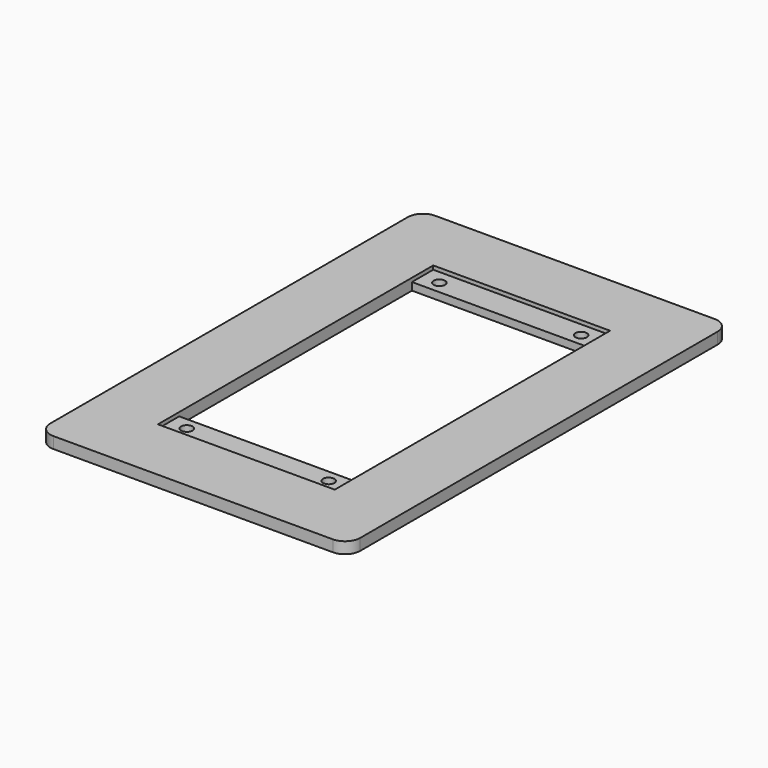
from build123d import *

# Parameters (mm, degrees)
F0_W     = 93
F0_H     = 153
F2_DEPTH = 6
F1_W     = 93
F1_H     = 14
F3_DEPTH = 2
F5_D     = 6


with BuildPart() as f2:
    # F0 (on Top) → F2 (new body)
    with BuildSketch(Plane.XY):
        with BuildLine():
            Line((-73.5, -125.5), (73.5, -125.5))
            ThreePointArc((73.5, -125.5), (79.1568542495, -123.1568542495), (81.5, -117.5))
            Line((81.5, -117.5), (81.5, 117.5))
            ThreePointArc((81.5, 117.5), (79.1568542495, 123.1568542495), (73.5, 125.5))
            Line((73.5, 125.5), (-73.5, 125.5))
            ThreePointArc((-73.5, 125.5), (-79.1568542495, 123.1568542495), (-81.5, 117.5))
            Line((-81.5, 117.5), (-81.5, -117.5))
            ThreePointArc((-81.5, -117.5), (-79.1568542495, -123.1568542495), (-73.5, -125.5))
        make_face()
        Rectangle(F0_W, F0_H, mode=Mode.SUBTRACT)
    extrude(amount=-F2_DEPTH)

    # F1 (on face) → F3 (cut)
    with BuildSketch(Plane.XY):
        with Locations((0, 83.5)):
            Rectangle(F1_W, F1_H)
        with Locations((0, -83.5)):
            Rectangle(F1_W, F1_H)
        with Locations((0, 83.5)):
            Rectangle(F1_W, F1_H)
    extrude(amount=-F3_DEPTH, mode=Mode.SUBTRACT)

    # F5 (through all)
    with Locations(Plane.XY):
        with Locations((-37.3, 83), (37.3, 83), (37.3, -83), (-37.3, -83)):
            Hole(F5_D / 2)


solid = f2.part
